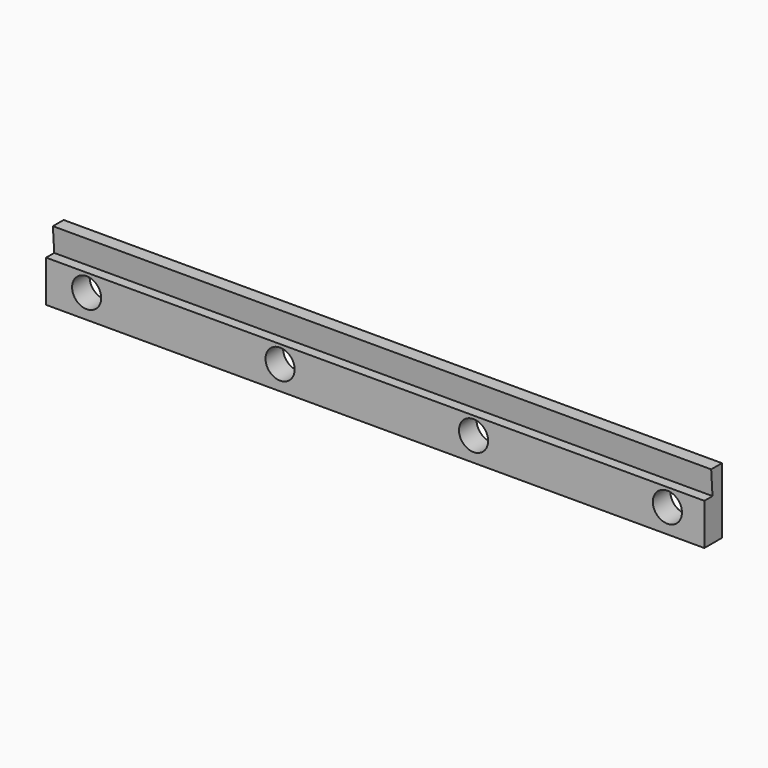
from build123d import *

# Parameters (mm, degrees)
F0_W     = 190.5
F0_H     = 19.05
F1_DEPTH = 6.35
F3_D     = 8.4328
F5_DEPTH = 190.501


with BuildPart() as f1:
    # F0 (on Front) → F1 (new body)
    with BuildSketch(Plane.XZ):
        with Locations((95.25, 9.525)):
            Rectangle(F0_W, F0_H)
    extrude(amount=F1_DEPTH)

    # F3 (through all)
    with Locations(Plane.XZ.offset(6.35)):
        with Locations((11.74115, 6.92785), (67.72275, 6.92785), (123.70435, 6.92785), (179.80025, 6.92785)):
            Hole(F3_D / 2)

    # F4 (on face) → F5 (cut, through all)
    with BuildSketch(Plane.YZ.offset(190.5)):
        Polygon((-6.35, 19.05), (-6.35, 12.0396), (-3.4036, 12.0396), (-3.8862, 19.05), align=None)
    extrude(amount=-F5_DEPTH, mode=Mode.SUBTRACT)


solid = f1.part
